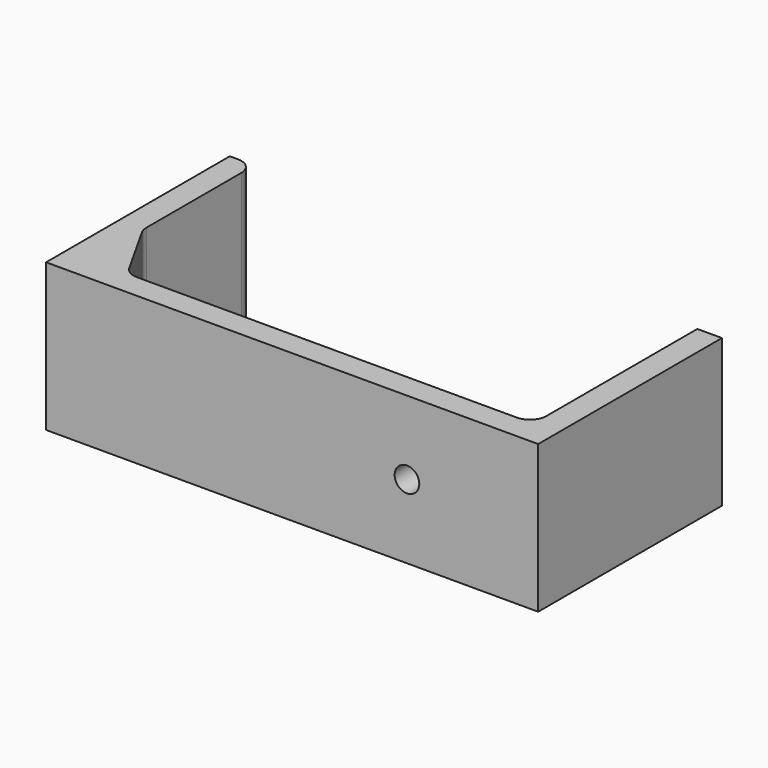
from build123d import *

# Parameters (mm, degrees)
F1_DEPTH = 18
F2_R     = 1.5
F3_DEPTH = 28.001
F4_SIZE2 = 4.5
F4_SIZE  = 8
F5_R     = 2


with BuildPart() as f1:
    # F0 (on Top) → F1 (new body)
    with BuildSketch(Plane.XY):
        Polygon((3, 0), (0, 0), (0, -28), (60, -28), (60, 0), (57, 0), (57, -25), (3, -25), align=None)
    extrude(amount=F1_DEPTH)

    # F2 (on face) → F3 (cut, through all)
    with BuildSketch(Plane.XZ.offset(28)):
        with Locations((44, 9)):
            Circle(F2_R)
    extrude(amount=-F3_DEPTH, mode=Mode.SUBTRACT)

    # F4
    f4_edges = [f1.edges().sort_by_distance(p)[0] for p in [
        (3, -25, 9),
    ]]
    f4_side = f1.faces().sort_by_distance((3, -12.5, 9))[0]
    chamfer(f4_edges, length=F4_SIZE, length2=F4_SIZE2, reference=f4_side)

    # F5
    f5_edges = [f1.edges().sort_by_distance(p)[0] for p in [
        (57, -25, 9),
        (7.5, -25, 9),
        (3, -17, 9),
        (3, 0, 9),
    ]]
    fillet(f5_edges, radius=F5_R)


solid = f1.part
